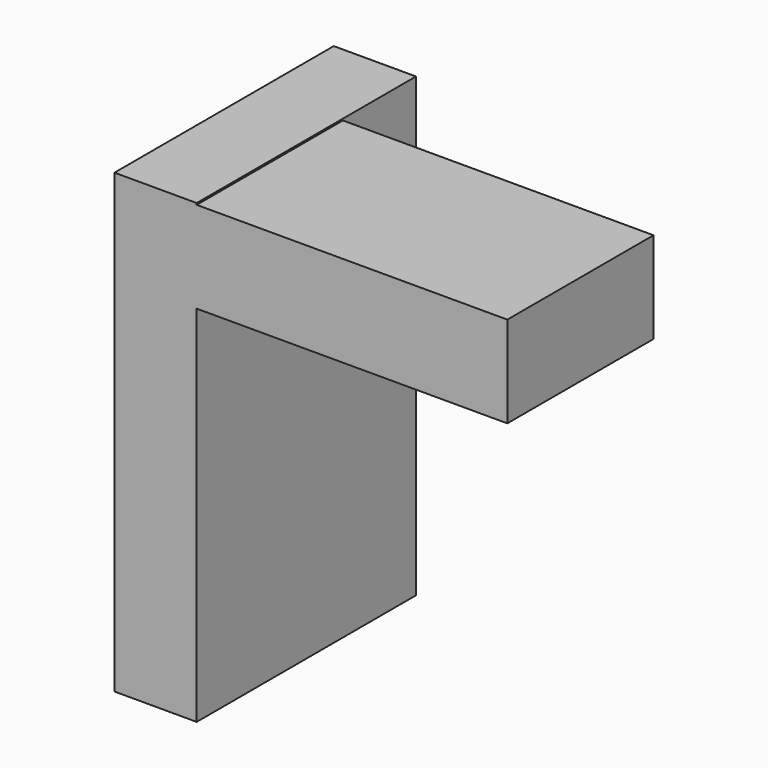
from build123d import *

# Parameters (mm, degrees)
F1_DEPTH = 12.7
F2_DEPTH = 25.4


with BuildPart() as f1:
    # F0 (on Front) → F1 (new body, symmetric)
    with BuildSketch(Plane.XZ):
        Polygon((-5.715001, -31.75), (5.715001, -31.75), (5.715001, 18.824677), (5.715001, 31.524677), (5.715001, 31.75), (-5.715001, 31.75), align=None)
    extrude(amount=F1_DEPTH, both=True)

    # F0 (on Front) → F2 (join)
    with BuildSketch(Plane.XZ):
        Polygon((-5.715001, -31.75), (5.715001, -31.75), (5.715001, 18.824677), (5.715001, 31.524677), (5.715001, 31.75), (-5.715001, 31.75), align=None)
        Polygon((5.715001, 31.524677), (5.715001, 18.824677), (5.919492, 18.824677), (48.895001, 18.824677), (48.895001, 31.524677), align=None)
    extrude(amount=F2_DEPTH)


solid = f1.part
